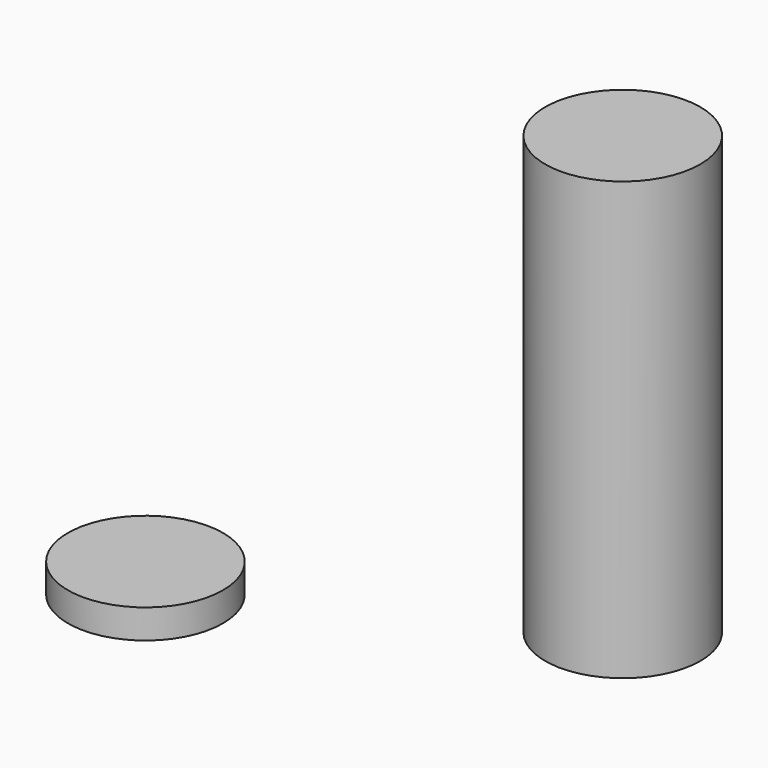
from build123d import *

# Parameters (mm, degrees)
F0_R     = 13.3
F1_DEPTH = 74.97
F2_R     = 10
F3_DEPTH = 69
F4_R     = 13.3
F5_DEPTH = 5


with BuildPart() as f1:
    # F0 (on Top) → F1 (new body)
    with BuildSketch(Plane.XY):
        Circle(F0_R)
    extrude(amount=F1_DEPTH)

    # F2 (on Top) → F3 (cut)
    with BuildSketch(Plane.XY):
        Circle(F2_R)
    extrude(amount=F3_DEPTH, mode=Mode.SUBTRACT)


with BuildPart() as f5:
    # F4 (on Top) → F5 (new body)
    with BuildSketch(Plane.XY):
        with Locations((-56.72203, -31.389862)):
            Circle(F4_R)
    extrude(amount=F5_DEPTH)


solid = Compound([f1.part, f5.part])
